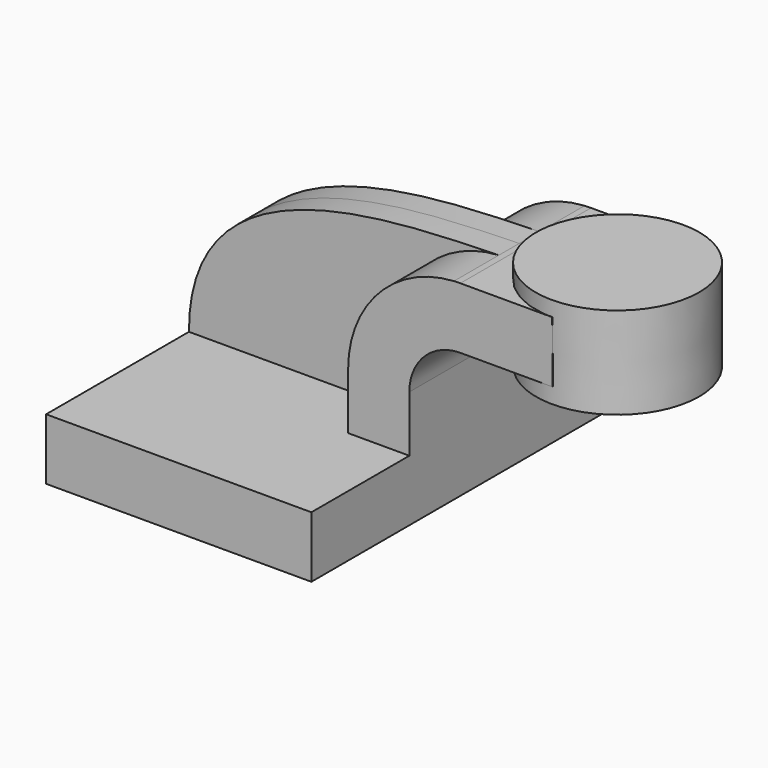
from build123d import *

# Parameters (mm, degrees)
F1_DEPTH = 63.5
F2_DEPTH = 25.4
F3_DEPTH = 7.9375


with BuildPart() as f1:
    # F0 (on Front) → F1 (new body, symmetric)
    with BuildSketch(Plane.XZ):
        Polygon((22.225, 9.525), (-41.275, 9.525), (-41.275, -9.525), (41.275, -9.525), (41.275, 9.525), align=None)
    extrude(amount=F1_DEPTH, both=True)

    # F0 (on Front) → F2 (join, symmetric)
    with BuildSketch(Plane.XZ):
        with BuildLine():
            Line((22.225, 27.0002), (22.225, 9.525))
            Line((22.225, 9.525), (41.275, 9.525))
            Line((41.275, 9.525), (41.275, 27.0002))
            ThreePointArc((41.275, 27.0002), (45.9246798487, 38.2255201513), (57.15, 42.8752))
            Line((57.15, 42.8752), (60.325, 42.8752))
            Line((60.325, 42.8752), (60.325, 61.9252))
            Line((60.325, 61.9252), (57.15, 61.9252))
            add(Edge.make_bspline(
                [(55.1550839927, 61.8681786498), (55.8287248992, 61.8870479085), (56.4938809422, 61.905947569), (57.15, 61.9252)],
                knots=[109.4613914809, 109.4613914809, 109.4613914809, 109.4613914809, 111.5045361635, 111.5045361635, 111.5045361635, 111.5045361635], degree=3))
            ThreePointArc((55.1550839927, 61.8681786498), (31.7587803901, 50.9802248483), (22.225, 27.0002))
        make_face()
        Polygon((85.735681167, 61.9252), (60.325, 61.9252), (60.325, 42.8752), (85.725, 42.8752), (85.7785200719, 42.8752), align=None)
    extrude(amount=F2_DEPTH, both=True)

    # F0 (on Front) → F3 (join, symmetric)
    with BuildSketch(Plane.XZ):
        with BuildLine():
            add(Edge.make_bspline(
                [(-41.275, 9.525), (-41.3793846384, 59.9336008286), (19.0648004183, 60.8572588993), (55.1550839927, 61.8681786498)],
                knots=[0, 0, 0, 0, 109.4613914809, 109.4613914809, 109.4613914809, 109.4613914809], degree=3))
            Line((-41.275, 9.525), (22.225, 9.525))
            Line((22.225, 9.525), (22.225, 27.0002))
            ThreePointArc((22.225, 27.0002), (31.7587803901, 50.9802248483), (55.1550839927, 61.8681786498))
        make_face()
    extrude(amount=F3_DEPTH, both=True)


with BuildPart() as f4:
    # F0 (on Front) → F4 (revolve)
    with BuildSketch(Plane.XZ):
        Polygon((85.725, 66.675), (85.735681167, 61.9252), (85.7892583575, 61.9252), (85.7892583575, 42.8752), (85.7785200719, 42.8752), (85.7892583575, 38.1), (111.125, 38.1), (111.125, 66.675), align=None)
    revolve(axis=Axis((85.7571291787, 0, 52.3875), (0.0022487557, 0, -0.9999974715)))


solid = Compound([f1.part, f4.part])
